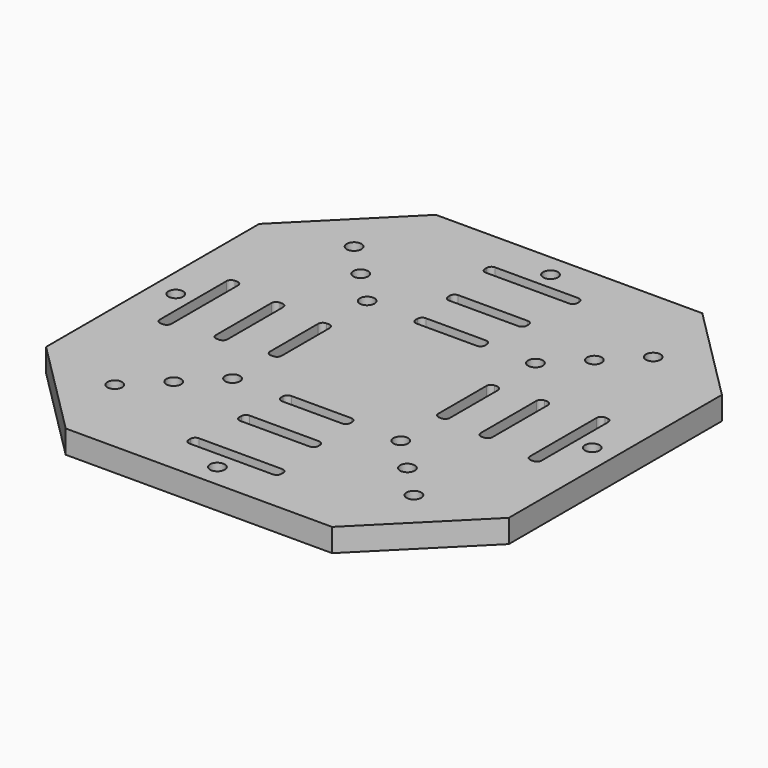
from build123d import *

# Parameters (mm, degrees)
F0_W     = 100
F0_H     = 100
F1_DEPTH = 5
F2_SIZE2 = 21.2132
F2_SIZE  = 21.2132
F3_R     = 1.5875
F3_W     = 2.5
F3_H     = 20
F3_W_2   = 20
F3_H_2   = 2.5
F4_DEPTH = 5
F5_R     = 1
F6_W     = 2.5
F6_H     = 15
F7_DEPTH = 5
F8_R     = 1


with BuildPart() as f1:
    # F0 (on Top) → F1 (new body)
    with BuildSketch(Plane.XY):
        Rectangle(F0_W, F0_H)
    extrude(amount=F1_DEPTH)

    # F2
    f2_edges = [f1.edges().sort_by_distance(p)[0] for p in [
        (50, -50, 2.5),
        (50, 50, 2.5),
        (-50, -50, 2.5),
        (-50, 50, 2.5),
    ]]
    chamfer(f2_edges, length=F2_SIZE, length2=F2_SIZE2)

    # F3 (on face) → F4 (cut)
    with BuildSketch(Plane.XY.offset(5)):
        with Locations((-25.251264, 25.251264)):
            Circle(F3_R)
        with Locations((-25.251265, -25.251264)):
            Circle(F3_R)
        with Locations((25.251262, -25.251264)):
            Circle(F3_R)
        with Locations((25.251262, 25.251262)):
            Circle(F3_R)
        with Locations((-18.180197, -18.180194)):
            Circle(F3_R)
        with Locations((18.180192, -18.180194)):
            Circle(F3_R)
        with Locations((18.180192, 18.180192)):
            Circle(F3_R)
        with Locations((-18.180197, 18.180197)):
            Circle(F3_R)
        with Locations((-32.322333, -32.322332)):
            Circle(F3_R)
        with Locations((32.322331, -32.322332)):
            Circle(F3_R)
        with Locations((32.322331, 32.322331)):
            Circle(F3_R)
        with Locations((-32.322333, 32.322332)):
            Circle(F3_R)
        with Locations((-40, 0)):
            Rectangle(F3_W, F3_H)
        with Locations((-45, 0)):
            Circle(F3_R)
        with Locations((0, -40)):
            Rectangle(F3_W_2, F3_H_2)
        with Locations((0, -45)):
            Circle(F3_R)
        with Locations((40, 0)):
            Rectangle(F3_W, F3_H)
        with Locations((45, 0)):
            Circle(F3_R)
        with Locations((0, 45)):
            Circle(F3_R)
        with Locations((0, 40)):
            Rectangle(F3_W_2, F3_H_2)
    extrude(amount=-F4_DEPTH, mode=Mode.SUBTRACT)

    # F5
    f5_edges = [f1.edges().sort_by_distance(p)[0] for p in [
        (-41.25, 10, 2.5),
        (-10, -38.75, 2.5),
        (38.75, 10, 2.5),
        (-10, 41.25, 2.5),
        (10, -38.75, 2.5),
        (41.25, 10, 2.5),
        (-38.75, 10, 2.5),
        (10, 41.25, 2.5),
        (41.25, -10, 2.5),
        (10, -41.25, 2.5),
        (10, 38.75, 2.5),
        (-38.75, -10, 2.5),
        (-10, 38.75, 2.5),
        (38.75, -10, 2.5),
        (-41.25, -10, 2.5),
        (-10, -41.25, 2.5),
    ]]
    fillet(f5_edges, radius=F5_R)

    # F6 (on face) → F7 (cut)
    with BuildSketch(Plane.XY.offset(5)):
        Polygon((7.499998, 16.930197), (7.499998, 19.430197), (-2e-06, 19.430197), (-7.500002, 19.430197), (-7.500002, 18.180197), (-7.500002, 16.930197), align=None)
        with Locations((-18.180197, -1e-06)):
            Rectangle(F6_W, F6_H)
        Polygon((7.499998, -19.430199), (7.499998, -16.930199), (-7.500002, -16.930199), (-7.500002, -19.430199), (-2e-06, -19.430199), align=None)
        with Locations((18.180192, -1e-06)):
            Rectangle(F6_W, F6_H)
        Polygon((-27.824168, -1e-06), (-27.824168, 8.499999), (-30.324168, 8.499999), (-30.324168, -8.500001), (-27.824168, -8.500001), align=None)
        Polygon((8.499998, -29.430194), (8.499998, -26.930194), (-2e-06, -26.930194), (-8.500002, -26.930194), (-8.500002, -29.430194), align=None)
        Polygon((29.430192, -8.499999), (29.430192, 8.500001), (26.930192, 8.500001), (26.930192, 1e-06), (26.930192, -8.499999), align=None)
        Polygon((8.499998, 26.930197), (8.499998, 29.430197), (-8.500002, 29.430197), (-8.500002, 26.930197), (-2e-06, 26.930197), align=None)
    extrude(amount=-F7_DEPTH, mode=Mode.SUBTRACT)

    # F8
    f8_edges = [f1.edges().sort_by_distance(p)[0] for p in [
        (-30.324168, 8.499999, 2.5),
        (-19.430197, 7.499999, 2.5),
        (-8.500002, 29.430197, 2.5),
        (-7.500002, 19.430197, 2.5),
        (-7.500002, -16.930199, 2.5),
        (-8.500002, -26.930194, 2.5),
        (16.930192, 7.499999, 2.5),
        (26.930192, 8.500001, 2.5),
        (8.499998, 29.430197, 2.5),
        (7.499998, 19.430197, 2.5),
        (-27.824168, 8.499999, 2.5),
        (-16.930197, 7.499999, 2.5),
        (29.430192, 8.500001, 2.5),
        (19.430192, 7.499999, 2.5),
        (7.499998, -16.930199, 2.5),
        (8.499998, -26.930194, 2.5),
        (29.430192, -8.499999, 2.5),
        (19.430192, -7.500001, 2.5),
        (7.499998, -19.430199, 2.5),
        (8.499998, -29.430194, 2.5),
        (7.499998, 16.930197, 2.5),
        (8.499998, 26.930197, 2.5),
        (-27.824168, -8.500001, 2.5),
        (-16.930197, -7.500001, 2.5),
        (-7.500002, -19.430199, 2.5),
        (-8.500002, -29.430194, 2.5),
        (-30.324168, -8.500001, 2.5),
        (-19.430197, -7.500001, 2.5),
        (16.930192, -7.500001, 2.5),
        (26.930192, -8.499999, 2.5),
        (-8.500002, 26.930197, 2.5),
        (-7.500002, 16.930197, 2.5),
    ]]
    fillet(f8_edges, radius=F8_R)


solid = f1.part
